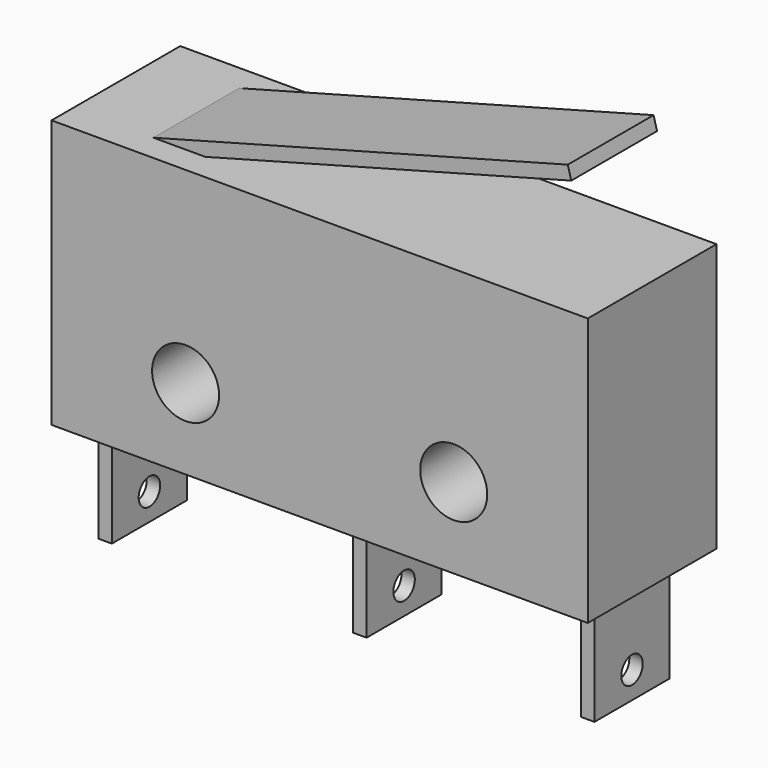
from build123d import *

# Parameters (mm, degrees)
F0_W     = 20
F0_H     = 10
F0_R     = 1.25
F1_DEPTH = 3
F3_DEPTH = 2
F4_W     = 0.5
F4_H     = 4
F5_DEPTH = 1.75
F6_R     = 0.5
F7_DEPTH = 19.251


with BuildPart() as f1:
    # F0 (on Front) → F1 (new body, symmetric)
    with BuildSketch(Plane.XZ):
        with Locations((0, 5)):
            Rectangle(F0_W, F0_H)
        with Locations((-5, 3)):
            Circle(F0_R, mode=Mode.SUBTRACT)
        with Locations((5, 3)):
            Circle(F0_R, mode=Mode.SUBTRACT)
    extrude(amount=F1_DEPTH, both=True)

    # F2 (on Front) → F3 (join, symmetric)
    with BuildSketch(Plane.XZ):
        Polygon((8.4548132206, 14.1411047216), (-7, 10), (-6.8705904774, 9.5170370869), (8.5842227432, 13.6581418085), align=None)
    extrude(amount=F3_DEPTH, both=True)

    # F4 (on Front) → F5 (join, symmetric)
    with BuildSketch(Plane.XZ):
        with Locations((-9, -2)):
            Rectangle(F4_W, F4_H)
        with Locations((0.5, -2)):
            Rectangle(F4_W, F4_H)
        with Locations((9, -2)):
            Rectangle(F4_W, F4_H)
    extrude(amount=F5_DEPTH, both=True)

    # F6 (on face) → F7 (cut, through all)
    with BuildSketch(Plane(origin=(-9.25, 0, 0), x_dir=(0, -1, 0), z_dir=(-1, 0, 0))):
        with Locations((0, -3)):
            Circle(F6_R)
    extrude(amount=-F7_DEPTH, mode=Mode.SUBTRACT)


solid = f1.part
